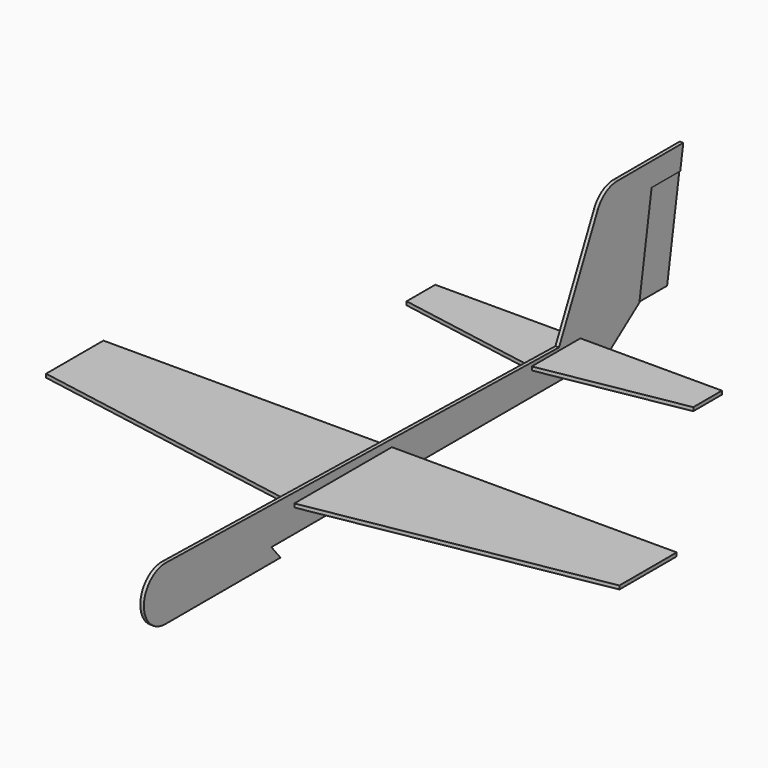
from build123d import *

# Parameters (mm, degrees)
F1_DEPTH = 1.27
F3_DEPTH = 0.635
F6_DEPTH = 2.54
F8_DEPTH = 2.54


with BuildPart() as f1:
    # F0 (on Right) → F1 (new body)
    with BuildSketch(Plane.YZ):
        with BuildLine():
            ThreePointArc((-200.258537, 11.780631), (-187.044089, 6.064791), (-181.603342, -7.265277))
            ThreePointArc((-181.603342, -7.265277), (-187.049753, -20.601126), (-200.274718, -26.311514))
            Line((-200.274718, -26.311514), (-98.674718, -26.311514))
            Line((-98.674718, -26.311514), (-106.728071, -16.491458))
            Line((-106.728071, -16.491458), (192.096516, -16.491458))
            Line((192.096516, -16.491458), (219.306946, 3.576297))
            Line((219.306946, 3.576297), (230.160994, 70.95023))
            Line((230.160994, 70.95023), (255.560994, 70.95023))
            Line((255.560994, 70.95023), (258.223286, 87.475775))
            Line((258.223286, 87.475775), (199.871009, 87.475775))
            ThreePointArc((199.871009, 87.475775), (189.561421, 84.495684), (182.431828, 76.47462))
            Line((182.431828, 76.47462), (148.114353, 4.559168))
            Line((148.114353, 4.559168), (-200.258537, 11.780631))
        make_face()
        with BuildLine():
            ThreePointArc((-200.274718, -26.311514), (-187.049753, -20.601126), (-181.603342, -7.265277))
            ThreePointArc((-181.603342, -7.265277), (-187.044089, 6.064791), (-200.258537, 11.780631))
            ThreePointArc((-200.258537, 11.780631), (-219.70334, -7.257185), (-200.274718, -26.311514))
        make_face()
    extrude(amount=F1_DEPTH)

    # F2: F1 across plane


with BuildPart() as f1_1:
    add(f1.part)
    add(f1.part.mirror(Plane.YZ))

    # F5 (on Top) → F6 (join)
    with BuildSketch(Plane.XY):
        Polygon((203.2, 0), (0, 0), (-203.2, 0), (-203.2, -50.8), (0, -86.629642), (203.2, -50.8), align=None)
    extrude(amount=F6_DEPTH)

    # F7 (on Top) → F8 (join)
    with BuildSketch(Plane.XY):
        Polygon((101.6, 167.04415), (0, 167.04415), (-101.6, 167.04415), (-101.6, 141.64415), (0, 123.729329), (101.6, 141.64415), align=None)
    extrude(amount=F8_DEPTH)


with BuildPart() as f3:
    # F0 (on Right) → F3 (new body)
    with BuildSketch(Plane.YZ):
        Polygon((230.160994, 70.95023), (219.306946, 3.576297), (244.706946, 3.576297), (255.560994, 70.95023), align=None)
    extrude(amount=F3_DEPTH)


with BuildPart() as f4_1:
    # F4: instance of F3
    add(f3.part.mirror(Plane.YZ))


solid = Compound([f1_1.part, f3.part, f4_1.part])
